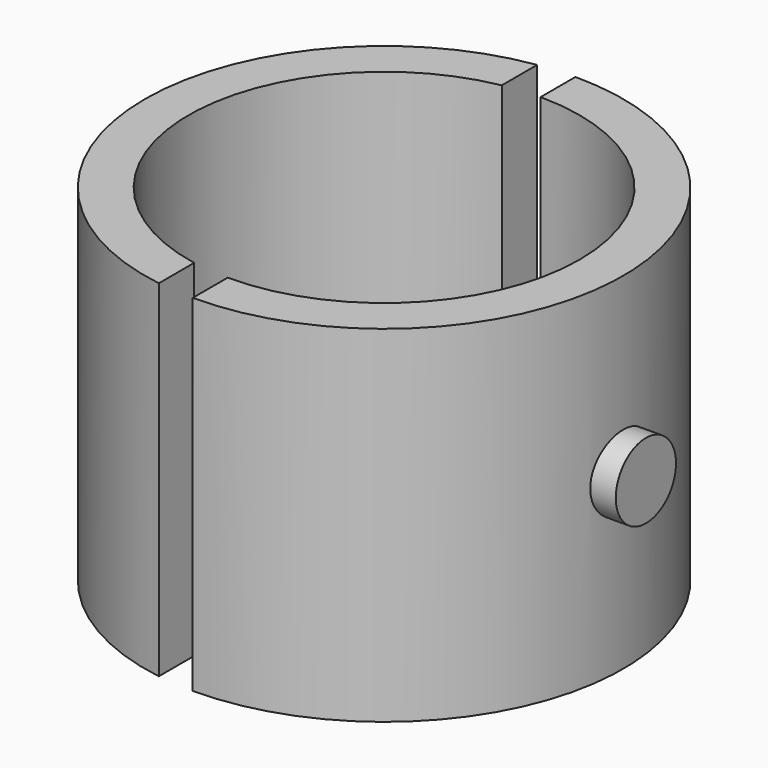
from build123d import *

# Parameters (mm, degrees)
F1_DEPTH      = 11.5
F1_DEPTH_BACK = 11.5
F2_DEPTH      = 11.5
F2_DEPTH_BACK = 11.5
F4_START      = 15
F3_R          = 2.5
F4_DEPTH      = 2.4
F5_START      = -15
F5_DEPTH      = 2.4


with BuildPart() as f1:
    # F0 (on Top) → F1 (new body, two sides)
    with BuildSketch(Plane.XY) as f1_sk:
        with BuildLine():
            ThreePointArc((-2.4, -12.7765410029), (-13, 0), (-2.4, 12.7765410029))
            Line((-2.4, 12.7765410029), (-2.4, 15.7178242769))
            ThreePointArc((-2.4, 15.7178242769), (-15.9, 0), (-2.4, -15.7178242769))
            Line((-2.4, -15.7178242769), (-2.4, -12.7765410029))
        make_face()
    extrude(amount=F1_DEPTH)
    extrude(f1_sk.sketch, amount=-F1_DEPTH_BACK)

    # F3 (on Right) → F5 (join)
    with BuildSketch(Plane.YZ.offset(F5_START)):
        Circle(F3_R)
    extrude(amount=-F5_DEPTH)


with BuildPart() as f2:
    # F0 (on Top) → F2 (new body, two sides)
    with BuildSketch(Plane.XY) as f2_sk:
        with BuildLine():
            ThreePointArc((0, 13), (13, 0), (0, -13))
            Line((0, -13), (0, -15.9))
            ThreePointArc((0, -15.9), (15.9, 0), (0, 15.9))
            Line((0, 15.9), (0, 13))
        make_face()
    extrude(amount=F2_DEPTH)
    extrude(f2_sk.sketch, amount=-F2_DEPTH_BACK)

    # F3 (on Right) → F4 (join)
    with BuildSketch(Plane.YZ.offset(F4_START)):
        Circle(F3_R)
    extrude(amount=F4_DEPTH)


solid = Compound([f1.part, f2.part])
